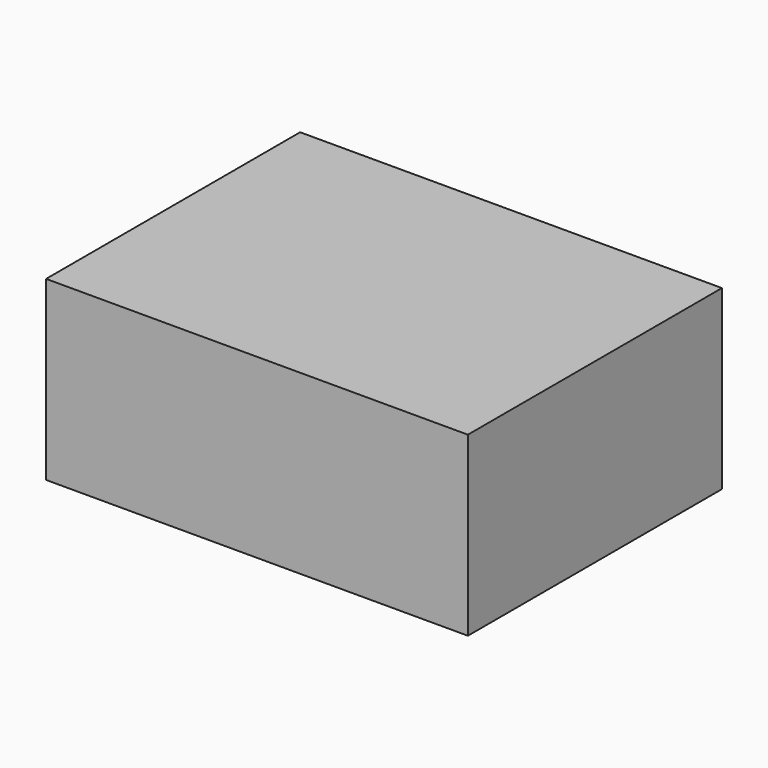
from build123d import *

# Parameters (mm, degrees)
F2_R     = 1
F4_W     = 36.695028
F4_H     = 27.624347
F5_DEPTH = 15.4


with BuildPart() as f1:
    # F0 (on Front) → F1 (revolve)
    with BuildSketch(Plane.XZ):
        with BuildLine():
            ThreePointArc((0, 1.33886), (4.542224, 0.953262), (9, 0))
            Line((9, 0), (9, 2))
            Line((9, 2), (4.1, 2))
            Line((4.1, 2), (4.1, 4.9))
            Line((4.1, 4.9), (0, 4.9))
            Line((0, 4.9), (0, 1.33886))
        make_face()
    revolve(axis=Axis((0, 0, 3.11943), (0, 0, -1)))

    # F2
    f2_edges = [f1.edges().sort_by_distance(p)[0] for p in [
        (-9, 0, 0),
    ]]
    fillet(f2_edges, radius=F2_R)


with BuildPart() as f5:
    # F4 (on offset) → F5 (new body)
    with BuildSketch(Plane.XY.offset(0.5)):
        with Locations((-0.721532, -0.618456)):
            Rectangle(F4_W, F4_H)
    extrude(amount=F5_DEPTH)

    # F6: cut F1
    add(f1.part, mode=Mode.SUBTRACT)


solid = f5.part
